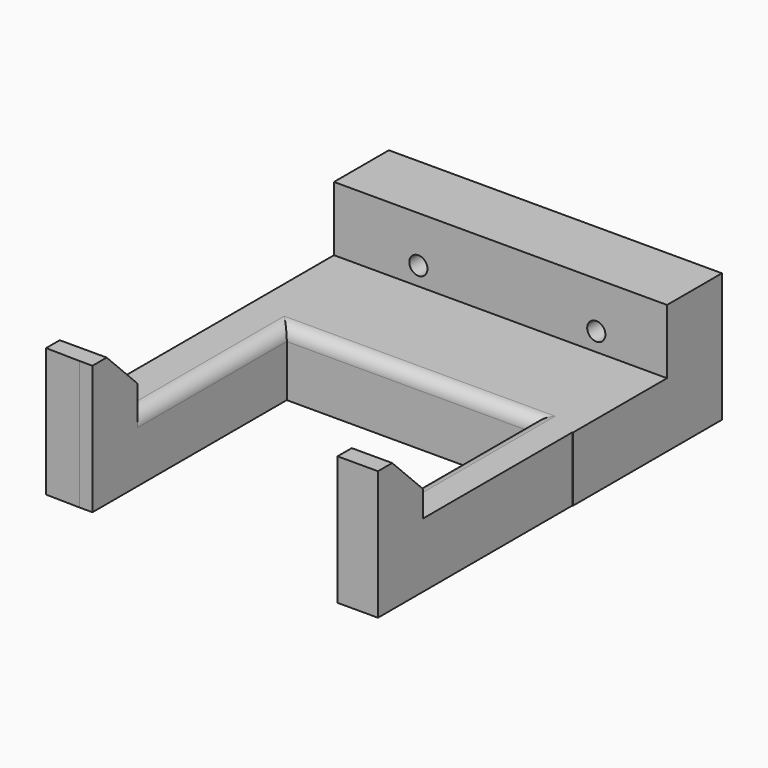
from build123d import *

# Parameters (mm, degrees)
F0_R     = 1.5930121089
F0_R_2   = 1.27
F1_DEPTH = 12.7
F0_W     = 7.9617746973
F0_H     = 11.1195407808
F0_W_2   = 65.5765477568
F0_H_2   = 13.5095529258
F2_DEPTH = 25.4
F3_SIZE  = 7.62
F5_D     = 3.5814
F6_R     = 2.54


with BuildPart() as f1:
    # F0 (on Top) → F1 (new body)
    with BuildSketch(Plane.XY):
        Polygon((-11.4968402433, 18.5921955854), (-0.2459318388, 18.5921955854), (36.7631597567, 18.5921955854), (44.724934454, 18.5921955854), (44.8390953243, 18.5921955854), (44.8390953243, 41.7590104043), (-20.7374524325, 41.7590104043), (-20.7374524325, 18.5921955854), align=None)
        Polygon((-11.4968402433, 13.8334799558), (-11.4968402433, 18.5921955854), (-20.7374524325, 18.5921955854), (-20.7374524325, -18.1194674224), (-11.4968402433, -18.1194674224), align=None)
        with Locations((-16.2880346179, 13.6660579592)):
            Circle(F0_R, mode=Mode.SUBTRACT)
        Polygon((44.724934454, 18.5921955854), (36.7631597567, 18.5921955854), (36.7631597567, 13.8334799558), (36.7631597567, -18.1194674224), (44.724934454, -18.1194674224), align=None)
        with Locations((40.6009033322, 13.8249658048)):
            Circle(F0_R_2, mode=Mode.SUBTRACT)
        with Locations((40.6009033322, 13.8249658048)):
            Circle(F0_R_2)
        with Locations((-16.2880346179, 13.6660579592)):
            Circle(F0_R)
    extrude(amount=F1_DEPTH)

    # F0 (on Top) → F2 (join)
    with BuildSketch(Plane.XY):
        Polygon((-11.4968402433, -29.2390082031), (-11.4968402433, -18.1194674224), (-20.7374524325, -18.1194674224), (-20.7374524325, -29.0999621163), (-14.0633266419, -29.2390082031), align=None)
        with Locations((40.7440471053, -23.6792378128)):
            Rectangle(F0_W, F0_H)
        with Locations((12.0508214459, 48.5137868673)):
            Rectangle(F0_W_2, F0_H_2)
    extrude(amount=F2_DEPTH)

    # F3
    f3_edges = [f1.edges().sort_by_distance(p)[0] for p in [
        (-16.117146, -18.119467, 25.4),
        (40.744047, -18.119467, 25.4),
    ]]
    chamfer(f3_edges, length=F3_SIZE)

    # F5 (through all)
    with Locations(Plane.XZ):
        with Locations((30.9119317681, 16.3051951677), (-4.1159610264, 16.3051951677)):
            Hole(F5_D / 2)

    # F6
    f6_edges = [f1.edges().sort_by_distance(p)[0] for p in [
        (-11.49684, 0.236364, 12.7),
        (12.63316, 18.592196, 12.7),
        (36.76316, 0.236364, 12.7),
    ]]
    fillet(f6_edges, radius=F6_R)


solid = f1.part
